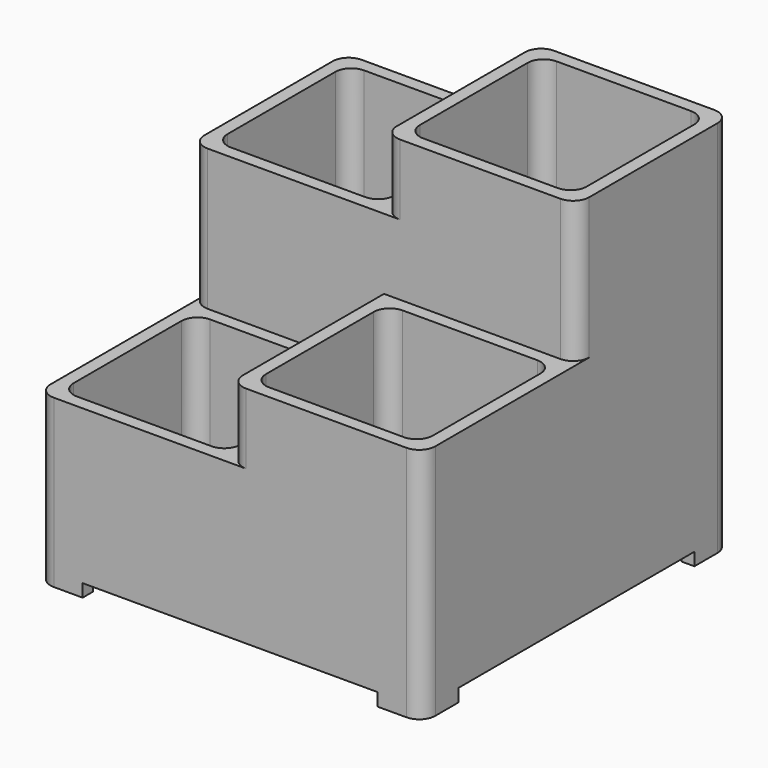
from build123d import *

# Parameters (mm, degrees)
F0_W      = 4
F0_H      = 4
F1_DEPTH  = 48
F2_DEPTH  = 8
F3_DEPTH  = 70
F4_DEPTH  = 30
F0_H_2    = 23.163830772
F5_DEPTH  = 114
F6_DEPTH  = 74
F0_W_2    = 10.0586636961
F7_DEPTH  = 92
F8_DEPTH  = 52
F9_DEPTH  = 4
F10_DEPTH = 48
F11_DEPTH = 26
F12_DEPTH = 70
F13_DEPTH = 4
F14_R     = 5


with BuildPart() as f1:
    # F0 (on Top) → F1 (new body)
    with BuildSketch(Plane.XY):
        Polygon((-12, -4), (-4, -4), (-4, 0), (-56, 0), (-56, -4), (-48, -4), align=None)
        Polygon((-60, -56), (-56, -56), (-56, -48), (-56, -46), (-60, -46), align=None)
        Polygon((-4, -56), (0, -56), (0, -4), (-4, -4), (-4, -12), (-4, -48), align=None)
        with Locations((-2, -2)):
            Rectangle(F0_W, F0_H)
        Polygon((-60, 0), (-60, -46), (-56, -46), (-56, -16.2410065532), (-56, -12), (-56, -4), (-56, 0), align=None)
        Polygon((-46, -60), (0, -60), (0, -56), (-4, -56), (-12, -56), (-46, -56), align=None)
        Polygon((-56, -60), (-46, -60), (-46, -56), (-48, -56), (-56, -56), align=None)
        with Locations((-58, -58)):
            Rectangle(F0_W, F0_H)
    extrude(amount=F1_DEPTH)

    # F0 (on Top) → F2 (join)
    with BuildSketch(Plane.XY):
        with BuildLine():
            Line((-48, -56), (-46, -56))
            Line((-46, -56), (-12, -56))
            ThreePointArc((-12, -56), (-9.6568542495, -50.3431457505), (-4, -48))
            Line((-4, -48), (-4, -12))
            ThreePointArc((-4, -12), (-9.6568542495, -9.6568542495), (-12, -4))
            Line((-12, -4), (-48, -4))
            ThreePointArc((-48, -4), (-50.3431457505, -9.6568542495), (-56, -12))
            Line((-56, -12), (-56, -16.2410065532))
            Line((-56, -16.2410065532), (-56, -46))
            Line((-56, -46), (-56, -48))
            ThreePointArc((-56, -48), (-50.3431457505, -50.3431457505), (-48, -56))
        make_face()
    extrude(amount=F2_DEPTH)

    # F0 (on Top) → F3 (join)
    with BuildSketch(Plane.XY):
        Polygon((0, -4), (0, -56), (4, -56), (4, -48), (4, -12), (4, -4), align=None)
        with Locations((2, -2)):
            Rectangle(F0_W, F0_H)
        Polygon((56, -4), (56, 0), (4, 0), (4, -4), (12, -4), (48, -4), align=None)
        Polygon((56, -46), (60, -46), (60, 0), (56, 0), (56, -4), (56, -12), align=None)
        Polygon((0, -60), (46, -60), (46, -56), (12, -56), (4, -56), (0, -56), align=None)
        Polygon((56, -56), (60, -56), (60, -46), (56, -46), (56, -48), align=None)
        with Locations((58, -58)):
            Rectangle(F0_W, F0_H)
        Polygon((46, -60), (56, -60), (56, -56), (48, -56), (46, -56), align=None)
    extrude(amount=F3_DEPTH)

    # F0 (on Top) → F4 (join)
    with BuildSketch(Plane.XY):
        with BuildLine():
            Line((12, -56), (46, -56))
            Line((46, -56), (48, -56))
            ThreePointArc((48, -56), (50.3431457505, -50.3431457505), (56, -48))
            Line((56, -48), (56, -46))
            Line((56, -46), (56, -12))
            ThreePointArc((56, -12), (50.3431457505, -9.6568542495), (48, -4))
            Line((48, -4), (12, -4))
            ThreePointArc((12, -4), (9.6568542495, -9.6568542495), (4, -12))
            Line((4, -12), (4, -48))
            ThreePointArc((4, -48), (9.6568542495, -50.3431457505), (12, -56))
        make_face()
    extrude(amount=F4_DEPTH)

    # F0 (on Top) → F5 (join)
    with BuildSketch(Plane.XY):
        Polygon((0, 4), (4, 4), (4, 12), (4, 48), (4, 56), (0, 56), align=None)
        Polygon((0, 60), (0, 56), (4, 56), (12, 56), (46, 56), (46, 60), align=None)
        with Locations((58, 34.418084614)):
            Rectangle(F0_W, F0_H_2)
        Polygon((56, 0), (60, 0), (60, 22.836169228), (56, 22.836169228), (56, 12), (56, 4), align=None)
        Polygon((4, 0), (56, 0), (56, 4), (48, 4), (12, 4), (4, 4), align=None)
        with Locations((2, 2)):
            Rectangle(F0_W, F0_H)
        Polygon((48, 56), (56, 56), (56, 60), (46, 60), (46, 56), align=None)
        with Locations((58, 58)):
            Rectangle(F0_W, F0_H)
        Polygon((56, 46), (60, 46), (60, 56), (56, 56), (56, 48), align=None)
    extrude(amount=F5_DEPTH)

    # F0 (on Top) → F6 (join)
    with BuildSketch(Plane.XY):
        with BuildLine():
            Line((56, 12), (56, 22.836169228))
            Line((56, 22.836169228), (56, 46))
            Line((56, 46), (56, 48))
            ThreePointArc((56, 48), (50.3431457505, 50.3431457505), (48, 56))
            Line((48, 56), (46, 56))
            Line((46, 56), (12, 56))
            ThreePointArc((12, 56), (9.6568542495, 50.3431457505), (4, 48))
            Line((4, 48), (4, 12))
            ThreePointArc((4, 12), (9.6568542495, 9.6568542495), (12, 4))
            Line((12, 4), (48, 4))
            ThreePointArc((48, 4), (50.3431457505, 9.6568542495), (56, 12))
        make_face()
    extrude(amount=F6_DEPTH)

    # F0 (on Top) → F7 (join)
    with BuildSketch(Plane.XY):
        Polygon((-56, 0), (-4, 0), (-4, 4), (-12, 4), (-48, 4), (-56, 4), align=None)
        Polygon((-4, 4), (0, 4), (0, 56), (-4, 56), (-4, 48), (-4, 12), align=None)
        with Locations((-2, 2)):
            Rectangle(F0_W, F0_H)
        Polygon((-4, 56), (0, 56), (0, 60), (-35.9413363039, 60), (-35.9413363039, 56), (-12, 56), align=None)
        with Locations((-40.970668152, 58)):
            Rectangle(F0_W_2, F0_H)
        Polygon((-60, 0), (-56, 0), (-56, 4), (-56, 12), (-56, 46), (-60, 46), align=None)
        Polygon((-46, 56), (-46, 60), (-56, 60), (-56, 56), (-48, 56), align=None)
        with Locations((-58, 58)):
            Rectangle(F0_W, F0_H)
        Polygon((-60, 56), (-60, 46), (-56, 46), (-56, 48), (-56, 56), align=None)
    extrude(amount=F7_DEPTH)

    # F0 (on Top) → F8 (join)
    with BuildSketch(Plane.XY):
        with BuildLine():
            ThreePointArc((-12, 4), (-9.6568542495, 9.6568542495), (-4, 12))
            Line((-4, 12), (-4, 48))
            ThreePointArc((-4, 48), (-9.6568542495, 50.3431457505), (-12, 56))
            Line((-12, 56), (-35.9413363039, 56))
            Line((-35.9413363039, 56), (-46, 56))
            Line((-46, 56), (-48, 56))
            ThreePointArc((-48, 56), (-50.3431457505, 50.3431457505), (-56, 48))
            Line((-56, 48), (-56, 46))
            Line((-56, 46), (-56, 12))
            ThreePointArc((-56, 12), (-50.3431457505, 9.6568542495), (-48, 4))
            Line((-48, 4), (-12, 4))
        make_face()
    extrude(amount=F8_DEPTH)

    # F0 (on Top) → F9 (cut)
    with BuildSketch(Plane.XY):
        with BuildLine():
            Line((-48, -56), (-46, -56))
            Line((-46, -56), (-12, -56))
            ThreePointArc((-12, -56), (-9.6568542495, -50.3431457505), (-4, -48))
            Line((-4, -48), (-4, -12))
            ThreePointArc((-4, -12), (-9.6568542495, -9.6568542495), (-12, -4))
            Line((-12, -4), (-48, -4))
            ThreePointArc((-48, -4), (-50.3431457505, -9.6568542495), (-56, -12))
            Line((-56, -12), (-56, -16.2410065532))
            Line((-56, -16.2410065532), (-56, -46))
            Line((-56, -46), (-56, -48))
            ThreePointArc((-56, -48), (-50.3431457505, -50.3431457505), (-48, -56))
        make_face()
    extrude(amount=F9_DEPTH, mode=Mode.SUBTRACT)

    # F0 (on Top) → F10 (cut)
    with BuildSketch(Plane.XY):
        with BuildLine():
            ThreePointArc((-12, 4), (-9.6568542495, 9.6568542495), (-4, 12))
            Line((-4, 12), (-4, 48))
            ThreePointArc((-4, 48), (-9.6568542495, 50.3431457505), (-12, 56))
            Line((-12, 56), (-35.9413363039, 56))
            Line((-35.9413363039, 56), (-46, 56))
            Line((-46, 56), (-48, 56))
            ThreePointArc((-48, 56), (-50.3431457505, 50.3431457505), (-56, 48))
            Line((-56, 48), (-56, 46))
            Line((-56, 46), (-56, 12))
            ThreePointArc((-56, 12), (-50.3431457505, 9.6568542495), (-48, 4))
            Line((-48, 4), (-12, 4))
        make_face()
    extrude(amount=F10_DEPTH, mode=Mode.SUBTRACT)

    # F0 (on Top) → F11 (cut)
    with BuildSketch(Plane.XY):
        with BuildLine():
            Line((12, -56), (46, -56))
            Line((46, -56), (48, -56))
            ThreePointArc((48, -56), (50.3431457505, -50.3431457505), (56, -48))
            Line((56, -48), (56, -46))
            Line((56, -46), (56, -12))
            ThreePointArc((56, -12), (50.3431457505, -9.6568542495), (48, -4))
            Line((48, -4), (12, -4))
            ThreePointArc((12, -4), (9.6568542495, -9.6568542495), (4, -12))
            Line((4, -12), (4, -48))
            ThreePointArc((4, -48), (9.6568542495, -50.3431457505), (12, -56))
        make_face()
    extrude(amount=F11_DEPTH, mode=Mode.SUBTRACT)

    # F0 (on Top) → F12 (cut)
    with BuildSketch(Plane.XY):
        with BuildLine():
            Line((56, 12), (56, 22.836169228))
            Line((56, 22.836169228), (56, 46))
            Line((56, 46), (56, 48))
            ThreePointArc((56, 48), (50.3431457505, 50.3431457505), (48, 56))
            Line((48, 56), (46, 56))
            Line((46, 56), (12, 56))
            ThreePointArc((12, 56), (9.6568542495, 50.3431457505), (4, 48))
            Line((4, 48), (4, 12))
            ThreePointArc((4, 12), (9.6568542495, 9.6568542495), (12, 4))
            Line((12, 4), (48, 4))
            ThreePointArc((48, 4), (50.3431457505, 9.6568542495), (56, 12))
        make_face()
    extrude(amount=F12_DEPTH, mode=Mode.SUBTRACT)

    # F0 (on Top) → F13 (join)
    with BuildSketch(Plane.XY):
        Polygon((-46, 56), (-46, 60), (-56, 60), (-56, 56), (-48, 56), align=None)
        with Locations((-58, 58)):
            Rectangle(F0_W, F0_H)
        Polygon((-60, 56), (-60, 46), (-56, 46), (-56, 48), (-56, 56), align=None)
        Polygon((48, 56), (56, 56), (56, 60), (46, 60), (46, 56), align=None)
        with Locations((58, 58)):
            Rectangle(F0_W, F0_H)
        Polygon((56, 46), (60, 46), (60, 56), (56, 56), (56, 48), align=None)
        Polygon((56, -56), (60, -56), (60, -46), (56, -46), (56, -48), align=None)
        Polygon((46, -60), (56, -60), (56, -56), (48, -56), (46, -56), align=None)
        with Locations((58, -58)):
            Rectangle(F0_W, F0_H)
        Polygon((-60, -56), (-56, -56), (-56, -48), (-56, -46), (-60, -46), align=None)
        with Locations((-58, -58)):
            Rectangle(F0_W, F0_H)
        Polygon((-56, -60), (-46, -60), (-46, -56), (-48, -56), (-56, -56), align=None)
    extrude(amount=-F13_DEPTH)

    # F14
    f14_edges = [f1.edges().sort_by_distance(p)[0] for p in [
        (-60, 60, 44),
        (-60, 0, 70),
        (-60, -60, 22),
        (60, -60, 33),
        (0, -60, 59),
        (60, 60, 55),
        (0, 60, 103),
        (0, 0, 103),
        (60, 0, 92),
        (-4, 56, 46),
        (-4, 4, 46),
        (-56, 56, 44),
        (-56, 4, 46),
        (-56, -4, 24),
        (-4, -4, 24),
        (-4, -56, 24),
        (-56, -56, 22),
        (4, -56, 35),
        (4, -4, 35),
        (56, -4, 35),
        (56, -56, 33),
        (56, 4, 57),
        (56, 56, 55),
        (4, 56, 57),
        (4, 4, 57),
    ]]
    fillet(f14_edges, radius=F14_R)


solid = f1.part
